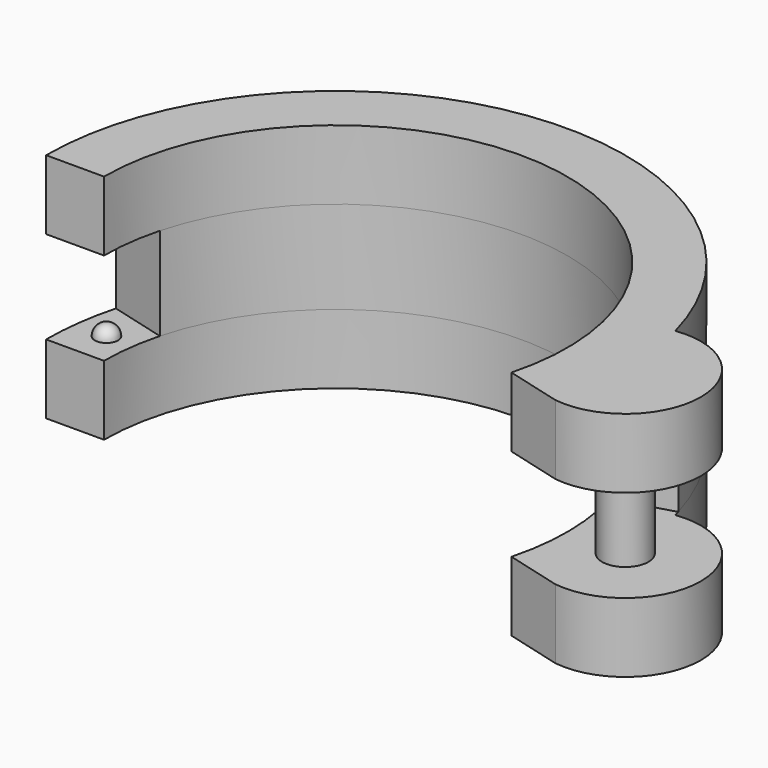
from build123d import *

# Parameters (mm, degrees)
F1_DEPTH = 3
F2_R     = 1
F3_DEPTH = 4
F5_DEPTH = 3


with BuildPart() as f1:
    # F0 (on Top) → F1 (new body)
    with BuildSketch(Plane.XY):
        with BuildLine():
            Line((9.6592582629, -2.588190451), (12.0740728286, -3.2352380638))
            ThreePointArc((12.0740728286, -3.2352380638), (12.5, 0), (12.0740728286, 3.2352380638))
            ThreePointArc((12.0740728286, 3.2352380638), (-1.6315774028, 12.3930607672), (-12.5, 0))
            Line((-12.5, 0), (-10, 0))
            ThreePointArc((-10, 0), (1.3052619222, 9.9144486137), (9.6592582629, -2.588190451))
        make_face()
        with BuildLine():
            ThreePointArc((12.0740728286, 3.2352380638), (12.5, 0), (12.0740728286, -3.2352380638))
            ThreePointArc((12.0740728286, -3.2352380638), (15.7631548055, 0), (12.0740728286, 3.2352380638))
        make_face()
    extrude(amount=F1_DEPTH)

    # F2 (on face) → F3 (join)
    with BuildSketch(Plane.XY.offset(3)):
        with Locations((12.5, 0)):
            Circle(F2_R)
        with BuildLine():
            Line((-12.0740728286, 3.2352380638), (-9.6592582629, 2.588190451))
            ThreePointArc((-9.6592582629, 2.588190451), (-0.100929954, 9.9994906442), (9.605047786, 2.7826349075))
            Line((9.605047786, 2.7826349075), (12.0063097325, 3.4782936344))
            ThreePointArc((12.0063097325, 3.4782936344), (-0.1261624425, 12.4993633053), (-12.0740728286, 3.2352380638))
        make_face()
    extrude(amount=F3_DEPTH)

    # F4 (on face) → F5 (join)
    with BuildSketch(Plane.XY.offset(7)):
        with BuildLine():
            Line((9.6592582629, -2.588190451), (12.0740728286, -3.2352380638))
            ThreePointArc((12.0740728286, -3.2352380638), (12.5, 0), (12.0740728286, 3.2352380638))
            ThreePointArc((12.0740728286, 3.2352380638), (-1.6315774028, 12.3930607672), (-12.5, 0))
            Line((-12.5, 0), (-10, 0))
            ThreePointArc((-10, 0), (1.3052619222, 9.9144486137), (9.6592582629, -2.588190451))
        make_face()
        with BuildLine():
            ThreePointArc((12.0740728286, 3.2352380638), (12.5, 0), (12.0740728286, -3.2352380638))
            ThreePointArc((12.0740728286, -3.2352380638), (15.7631548055, 0), (12.0740728286, 3.2352380638))
        make_face()
    extrude(amount=F5_DEPTH)

    # F6 (on face) → F7 (revolve)
    with BuildSketch(Plane.XY.offset(3)):
        with BuildLine():
            Line((-11.123595869, 0.960134698), (-10.9930696768, 1.9515795594))
            ThreePointArc((-10.9930696768, 1.9515795594), (-11.5540552036, 1.5211202248), (-11.123595869, 0.960134698))
        make_face()
    revolve(axis=Axis((-11.0583327729, 1.4558571287, 3), (-0.1305261922, -0.9914448614, 0)))


solid = f1.part
